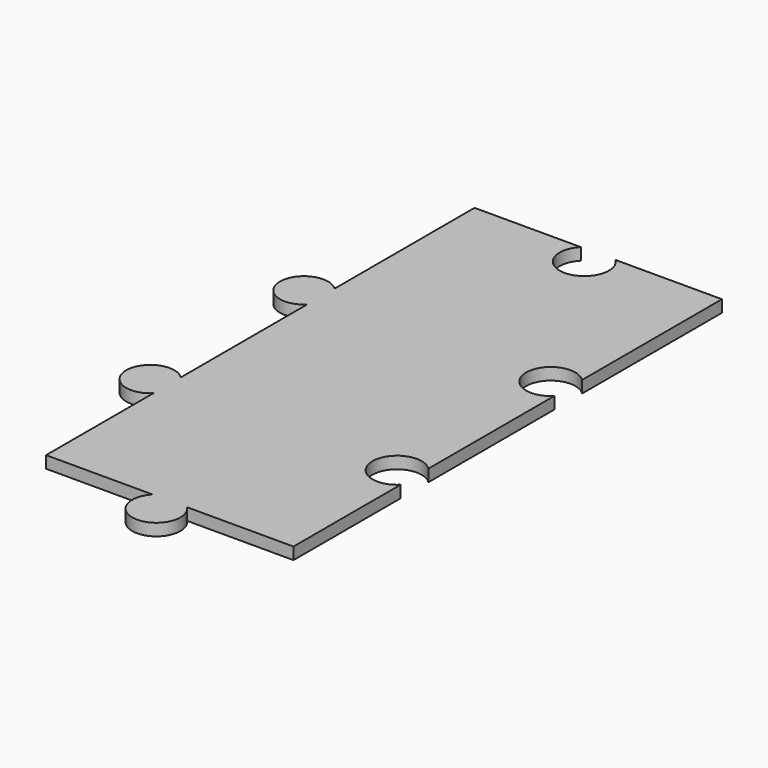
from build123d import *

# Parameters (mm, degrees)
F1_DEPTH = 12.7


with BuildPart() as f1:
    # F0 (on Top) → F1 (new body)
    with BuildSketch(Plane.XY):
        with BuildLine():
            Line((192.129228, 0), (304.8, 0))
            Line((304.8, 0), (304.8, 141.615952))
            ThreePointArc((304.8, 141.615952), (260.35, 160.02), (304.8, 178.424048))
            Line((304.8, 178.424048), (304.8, 344.815952))
            ThreePointArc((304.8, 344.815952), (260.35, 363.22), (304.8, 381.624048))
            Line((304.8, 381.624048), (304.8, 566.42))
            Line((304.8, 566.42), (192.394048, 566.42))
            ThreePointArc((192.394048, 566.42), (173.99, 521.97), (155.585952, 566.42))
            Line((155.585952, 566.42), (43.18, 566.42))
            Line((43.18, 566.42), (43.18, 381.359228))
            ThreePointArc((43.18, 381.359228), (0, 363.22), (43.18, 345.080772))
            Line((43.18, 345.080772), (43.18, 178.159228))
            ThreePointArc((43.18, 178.159228), (0, 160.02), (43.18, 141.880772))
            Line((43.18, 141.880772), (43.18, 0))
            Line((43.18, 0), (155.850772, 0))
            ThreePointArc((155.850772, 0), (173.99, -43.18), (192.129228, 0))
        make_face()
    extrude(amount=F1_DEPTH)


solid = f1.part
